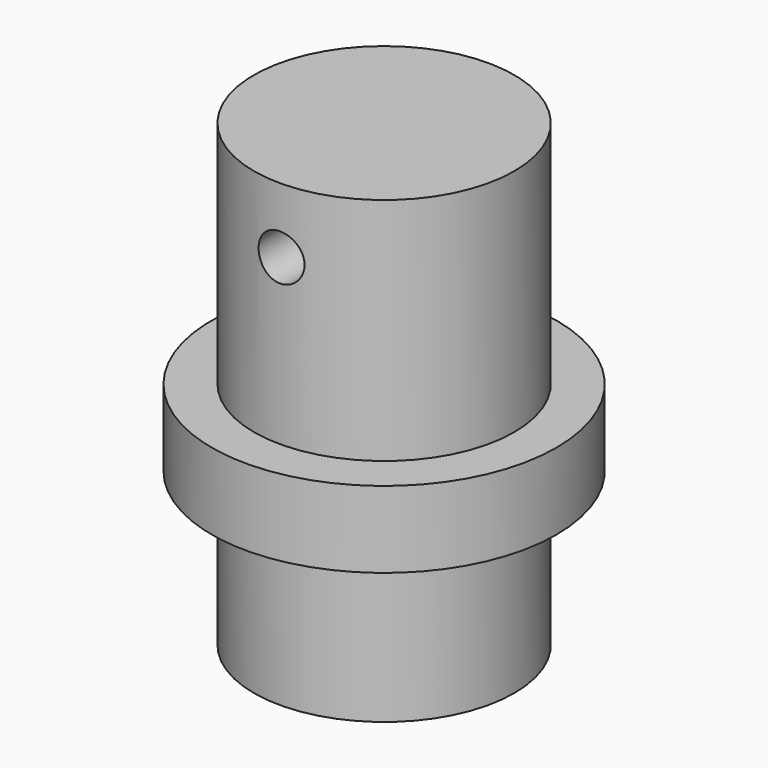
from build123d import *

# Parameters (mm, degrees)
SKETCH_R             = 17
PAD_DEPTH            = 30
SKETCH001_R          = 9
PAD001_DEPTH         = 28
SKETCH002_R          = 2
POCKET_DEPTH         = 15
SKETCH006_R          = 5
POCKET001_DEPTH      = 20
SKETCH007_R          = 3
POCKET002_DEPTH      = 17.001
POCKET002_DEPTH_BACK = -17.001
SKETCH003_R          = 2
PAD002_DEPTH         = 15
PAD002_DEPTH_BACK    = 5
SKETCH004_R          = 22.5
PAD003_DEPTH         = 10
SKETCH005_R          = 17
PAD004_DEPTH         = 20


with BuildPart() as body:
    # Sketch → Pad (new body)
    with BuildSketch(Plane.XY):
        Circle(SKETCH_R)
    extrude(amount=PAD_DEPTH)

    # Sketch001 (on Face2 of Pad) → Pad001 (join)
    with BuildSketch(Plane(origin=(0, 0, 0), x_dir=(1, 0, 0), z_dir=(0, 0, -1))):
        Circle(SKETCH001_R)
    extrude(amount=PAD001_DEPTH)

    # Sketch002 (on Face2 of Pad001) → Pocket (cut)
    with BuildSketch(Plane(origin=(0, 0, 0), x_dir=(1, 0, 0), z_dir=(0, 0, -1))):
        with Locations((13, 0)):
            Circle(SKETCH002_R)
    pocket = extrude(amount=-POCKET_DEPTH, mode=Mode.SUBTRACT)

    # Mirrored: Pocket across Sketch002 V_Axis
    add(pocket.mirror(Plane(origin=(0, 0, 0), x_dir=(0, 0, -1), z_dir=(1, 0, 0))), mode=Mode.SUBTRACT)

    # Sketch006 (on Face8 of Mirrored) → Pocket001 (cut)
    with BuildSketch(Plane(origin=(0, 0, -28), x_dir=(1, 0, 0), z_dir=(0, 0, -1))):
        Circle(SKETCH006_R)
    extrude(amount=-POCKET001_DEPTH, mode=Mode.SUBTRACT)

    # Sketch007 → Pocket002 (cut, two sides)
    with BuildSketch(Plane.XZ) as pocket002_sk:
        with Locations((0, 21.470982)):
            Circle(SKETCH007_R)
    extrude(amount=-POCKET002_DEPTH, mode=Mode.SUBTRACT)
    extrude(pocket002_sk.sketch, amount=-POCKET002_DEPTH_BACK, mode=Mode.SUBTRACT)


with BuildPart() as body001:
    # Sketch003 → Pad002 (new body, two sides)
    with BuildSketch(Plane.XY) as pad002_sk:
        with Locations((13, 0)):
            Circle(SKETCH003_R)
    extrude(amount=PAD002_DEPTH)
    extrude(pad002_sk.sketch, amount=-PAD002_DEPTH_BACK)


with BuildPart() as part_mirroring:
    # Part__Mirroring: instance of Body001
    add(body001.part.mirror(Plane(origin=(0, 0, 0), x_dir=(0, -1, 0), z_dir=(1, 0, 0))))


with BuildPart() as body002:
    # Sketch004 → Pad003 (new body)
    with BuildSketch(Plane.XY):
        Circle(SKETCH004_R)
    extrude(amount=-PAD003_DEPTH)

    # Sketch005 (on Face3 of Pad003) → Pad004 (join)
    with BuildSketch(Plane(origin=(0, 0, -10), x_dir=(1, 0, 0), z_dir=(0, 0, -1))):
        Circle(SKETCH005_R)
    extrude(amount=PAD004_DEPTH)


solid = Compound([body.part, part_mirroring.part, body002.part])
